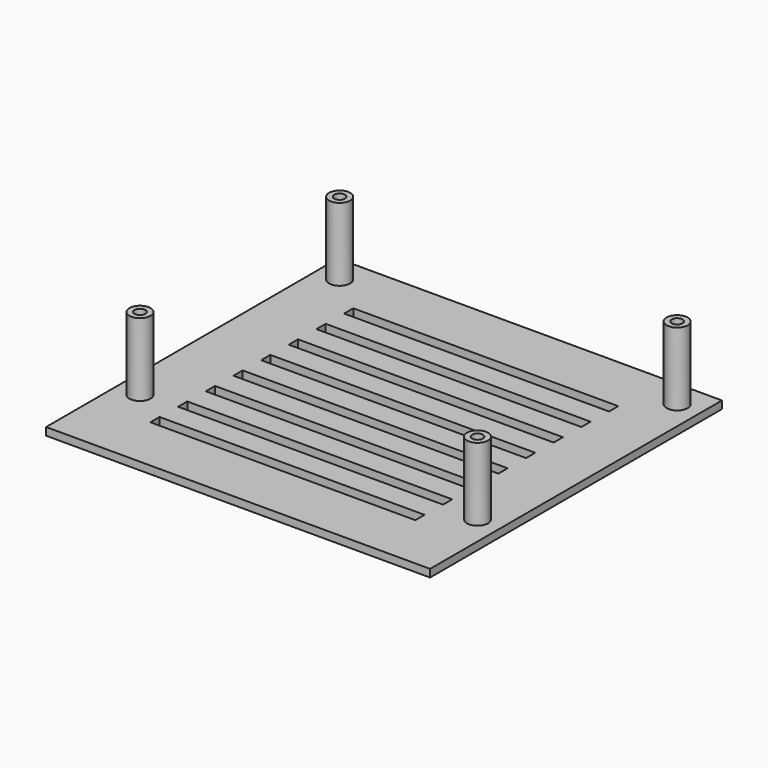
from build123d import *

# Parameters (mm, degrees)
F0_W     = 100
F0_H     = 95
F0_R     = 2.75
F0_W_2   = 69
F0_H_2   = 3
F1_DEPTH = 2
F2_DEPTH = 19
F3_R     = 1.4
F4_DEPTH = 15


with BuildPart() as f1:
    # F0 (on Top) → F1 (new body)
    with BuildSketch(Plane.XY):
        with Locations((50, 47.5)):
            Rectangle(F0_W, F0_H)
        with Locations((6.05, 23)):
            Circle(F0_R, mode=Mode.SUBTRACT)
        with Locations((49.763863, 16.368994)):
            Rectangle(F0_W_2, F0_H_2, mode=Mode.SUBTRACT)
        with Locations((49.886553, 25.224161)):
            Rectangle(F0_W_2, F0_H_2, mode=Mode.SUBTRACT)
        with Locations((93.95, 23)):
            Circle(F0_R, mode=Mode.SUBTRACT)
        with Locations((50.009242, 34.079329)):
            Rectangle(F0_W_2, F0_H_2, mode=Mode.SUBTRACT)
        with Locations((50.131932, 42.934497)):
            Rectangle(F0_W_2, F0_H_2, mode=Mode.SUBTRACT)
        with Locations((6.05, 88)):
            Circle(F0_R, mode=Mode.SUBTRACT)
        with Locations((50.254621, 51.789665)):
            Rectangle(F0_W_2, F0_H_2, mode=Mode.SUBTRACT)
        with Locations((50.377311, 60.644832)):
            Rectangle(F0_W_2, F0_H_2, mode=Mode.SUBTRACT)
        with Locations((50.5, 69.5)):
            Rectangle(F0_W_2, F0_H_2, mode=Mode.SUBTRACT)
        with Locations((50.622689, 78.355168)):
            Rectangle(F0_W_2, F0_H_2, mode=Mode.SUBTRACT)
        with Locations((93.95, 88)):
            Circle(F0_R, mode=Mode.SUBTRACT)
    extrude(amount=-F1_DEPTH)


with BuildPart() as f2:
    # F0 (on Top) → F2 (new body)
    with BuildSketch(Plane.XY):
        with Locations((6.05, 88)):
            Circle(F0_R)
        with Locations((93.95, 88)):
            Circle(F0_R)
        with Locations((93.95, 23)):
            Circle(F0_R)
        with Locations((6.05, 23)):
            Circle(F0_R)
    extrude(amount=F2_DEPTH)

    # F3 (on face) → F4 (cut)
    with BuildSketch(Plane.XY.offset(19)):
        with Locations((6.05, 88)):
            Circle(F3_R)
        with Locations((93.95, 88)):
            Circle(F3_R)
        with Locations((6.05, 23)):
            Circle(F3_R)
        with Locations((93.95, 23)):
            Circle(F3_R)
    extrude(amount=-F4_DEPTH, mode=Mode.SUBTRACT)


solid = Compound([f1.part, f2.part])
